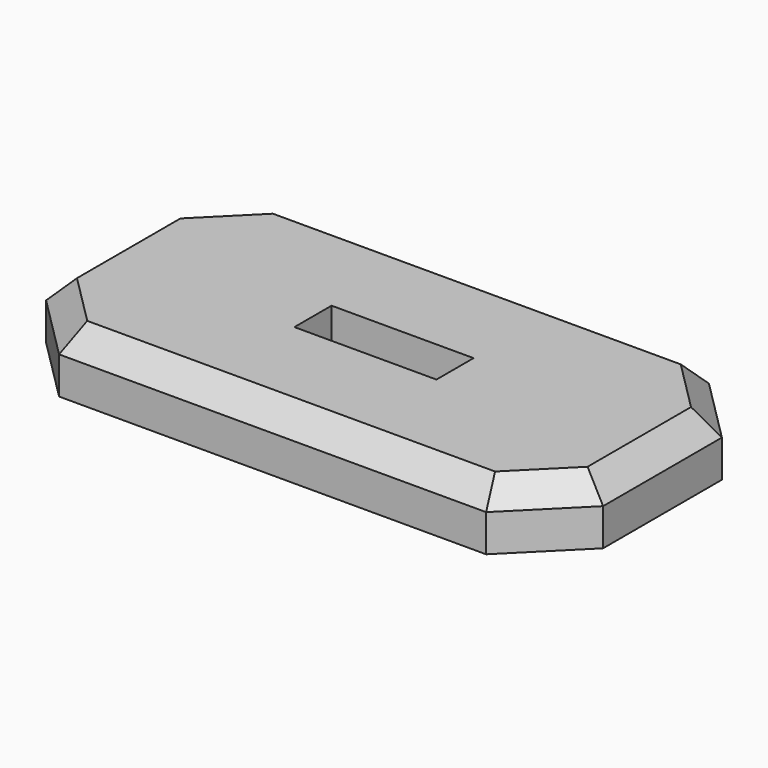
from build123d import *

# Parameters (mm, degrees)
F0_W     = 60
F0_H     = 30
F0_W_2   = 15.3
F0_H_2   = 5
F1_DEPTH = 6.5
F2_SIZE  = 7
F3_SIZE  = 2.5


with BuildPart() as f1:
    # F0 (on Top) → F1 (new body)
    with BuildSketch(Plane.XY):
        Rectangle(F0_W, F0_H)
        Rectangle(F0_W_2, F0_H_2, mode=Mode.SUBTRACT)
    extrude(amount=F1_DEPTH)

    # F2
    f2_edges = [f1.edges().sort_by_distance(p)[0] for p in [
        (-30, -15, 3.25),
        (30, -15, 3.25),
        (30, 15, 3.25),
        (-30, 15, 3.25),
    ]]
    chamfer(f2_edges, length=F2_SIZE)

    # F3
    f3_edges = [f1.edges().sort_by_distance(p)[0] for p in [
        (0, 15, 6.5),
        (-26.5, 11.5, 6.5),
        (-30, 0, 6.5),
        (-26.5, -11.5, 6.5),
        (0, -15, 6.5),
        (26.5, -11.5, 6.5),
        (30, 0, 6.5),
        (26.5, 11.5, 6.5),
    ]]
    chamfer(f3_edges, length=F3_SIZE)


solid = f1.part
